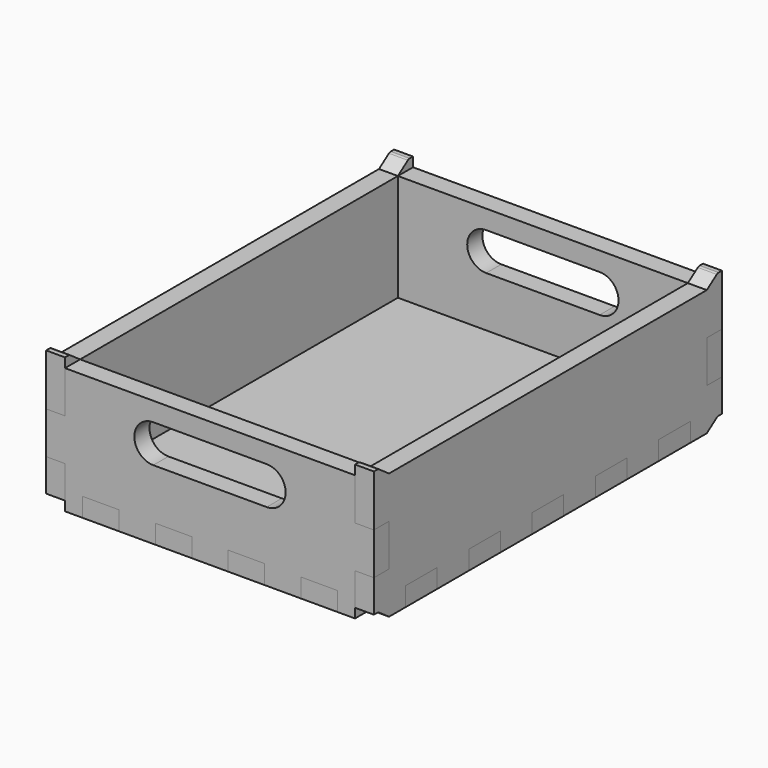
from build123d import *

# Parameters (mm, degrees)
SKETCH_W                           = 260
SKETCH_H                           = 345
PAD_DEPTH                          = 15
SKETCH001_W                        = 15
SKETCH001_H                        = 31.3636363636
POCKET_DEPTH                       = 879.523989862
SKETCH001_LINEARPATTERN_2_W        = 15
SKETCH001_LINEARPATTERN_2_H        = 31.3636363636
POCKET_LINEARPATTERN_2_DEPTH       = 879.523989862
SKETCH001_LINEARPATTERN_3_W        = 15
SKETCH001_LINEARPATTERN_3_H        = 31.3636363636
POCKET_LINEARPATTERN_3_DEPTH       = 879.523989862
SKETCH001_LINEARPATTERN_4_W        = 15
SKETCH001_LINEARPATTERN_4_H        = 31.3636363636
POCKET_LINEARPATTERN_4_DEPTH       = 879.523989862
SKETCH001_LINEARPATTERN_5_W        = 15
SKETCH001_LINEARPATTERN_5_H        = 31.3636363636
POCKET_LINEARPATTERN_5_DEPTH       = 879.523989862
SKETCH001_LINEARPATTERN_6_W        = 15
SKETCH001_LINEARPATTERN_6_H        = 31.3636363636
POCKET_LINEARPATTERN_6_DEPTH       = 879.523989862
LINEARPATTERN001_COUNT             = 2
LINEARPATTERN001_PITCH             = 245
SKETCH002_W                        = 28.8888888889
SKETCH002_H                        = 15
POCKET001_DEPTH                    = 879.523989862
SKETCH002_LINEARPATTERN002_2_W     = 28.8888888889
SKETCH002_LINEARPATTERN002_2_H     = 15
POCKET001_LINEARPATTERN002_2_DEPTH = 879.523989862
SKETCH002_LINEARPATTERN002_3_W     = 28.8888888889
SKETCH002_LINEARPATTERN002_3_H     = 15
POCKET001_LINEARPATTERN002_3_DEPTH = 879.523989862
SKETCH002_LINEARPATTERN002_4_W     = 28.8888888889
SKETCH002_LINEARPATTERN002_4_H     = 15
POCKET001_LINEARPATTERN002_4_DEPTH = 879.523989862
SKETCH002_LINEARPATTERN002_5_W     = 28.8888888889
SKETCH002_LINEARPATTERN002_5_H     = 15
POCKET001_LINEARPATTERN002_5_DEPTH = 879.523989862
LINEARPATTERN003_COUNT             = 2
LINEARPATTERN003_PITCH             = 330
SKETCH003_W                        = 260
SKETCH003_H                        = 100
PAD001_DEPTH                       = 15
SKETCH004_W                        = 15
SKETCH004_H                        = 33.3333333333
POCKET002_DEPTH                    = 572.9436493825
SKETCH004_LINEARPATTERN004_2_W     = 15
SKETCH004_LINEARPATTERN004_2_H     = 33.3333333333
POCKET002_LINEARPATTERN004_2_DEPTH = 572.9436493825
LINEARPATTERN005_COUNT             = 2
LINEARPATTERN005_PITCH             = 245
PAD002_DEPTH                       = 15
FILLET_R                           = 3.2
CLONE001_PLACEMENT_ANGLE           = 90
SKETCH006_W                        = 345
SKETCH006_H                        = 100
PAD003_DEPTH                       = 15


with BuildPart() as bottom_plate:
    # Sketch → Pad (new body)
    with BuildSketch(Plane.XY):
        Rectangle(SKETCH_W, SKETCH_H)
    extrude(amount=PAD_DEPTH)

    # Sketch001 (on Face6 of Pad) → Pocket (cut, through all)
    with BuildSketch(Plane.XY.offset(15)):
        with Locations((122.5, 156.8181818182)):
            Rectangle(SKETCH001_W, SKETCH001_H)
    pocket = extrude(amount=-POCKET_DEPTH, mode=Mode.SUBTRACT)

    # Sketch001 LinearPattern 2 → Pocket LinearPattern 2 (cut, through all)
    with BuildSketch(Plane(origin=(0, -62.7272727273, 15), x_dir=(1, 0, 0), z_dir=(0, 0, 1))):
        with Locations((122.5, 156.8181818182)):
            Rectangle(SKETCH001_LINEARPATTERN_2_W, SKETCH001_LINEARPATTERN_2_H)
    pocket_linearpattern_2 = extrude(amount=-POCKET_LINEARPATTERN_2_DEPTH, mode=Mode.SUBTRACT)

    # Sketch001 LinearPattern 3 → Pocket LinearPattern 3 (cut, through all)
    with BuildSketch(Plane(origin=(0, -125.4545454545, 15), x_dir=(1, 0, 0), z_dir=(0, 0, 1))):
        with Locations((122.5, 156.8181818182)):
            Rectangle(SKETCH001_LINEARPATTERN_3_W, SKETCH001_LINEARPATTERN_3_H)
    pocket_linearpattern_3 = extrude(amount=-POCKET_LINEARPATTERN_3_DEPTH, mode=Mode.SUBTRACT)

    # Sketch001 LinearPattern 4 → Pocket LinearPattern 4 (cut, through all)
    with BuildSketch(Plane(origin=(0, -188.1818181818, 15), x_dir=(1, 0, 0), z_dir=(0, 0, 1))):
        with Locations((122.5, 156.8181818182)):
            Rectangle(SKETCH001_LINEARPATTERN_4_W, SKETCH001_LINEARPATTERN_4_H)
    pocket_linearpattern_4 = extrude(amount=-POCKET_LINEARPATTERN_4_DEPTH, mode=Mode.SUBTRACT)

    # Sketch001 LinearPattern 5 → Pocket LinearPattern 5 (cut, through all)
    with BuildSketch(Plane(origin=(0, -250.9090909091, 15), x_dir=(1, 0, 0), z_dir=(0, 0, 1))):
        with Locations((122.5, 156.8181818182)):
            Rectangle(SKETCH001_LINEARPATTERN_5_W, SKETCH001_LINEARPATTERN_5_H)
    pocket_linearpattern_5 = extrude(amount=-POCKET_LINEARPATTERN_5_DEPTH, mode=Mode.SUBTRACT)

    # Sketch001 LinearPattern 6 → Pocket LinearPattern 6 (cut, through all)
    with BuildSketch(Plane(origin=(0, -313.6363636364, 15), x_dir=(1, 0, 0), z_dir=(0, 0, 1))):
        with Locations((122.5, 156.8181818182)):
            Rectangle(SKETCH001_LINEARPATTERN_6_W, SKETCH001_LINEARPATTERN_6_H)
    pocket_linearpattern_6 = extrude(amount=-POCKET_LINEARPATTERN_6_DEPTH, mode=Mode.SUBTRACT)

    # LinearPattern001: Pocket, Pocket LinearPattern 2, Pocket LinearPattern 3, Pocket LinearPattern 4, Pocket LinearPattern 5, Pocket LinearPattern 6 ×2
    with Locations(*[(-i * LINEARPATTERN001_PITCH, 0, 0) for i in range(1, LINEARPATTERN001_COUNT)]):
        add(pocket, mode=Mode.SUBTRACT)
        add(pocket_linearpattern_2, mode=Mode.SUBTRACT)
        add(pocket_linearpattern_3, mode=Mode.SUBTRACT)
        add(pocket_linearpattern_4, mode=Mode.SUBTRACT)
        add(pocket_linearpattern_5, mode=Mode.SUBTRACT)
        add(pocket_linearpattern_6, mode=Mode.SUBTRACT)

    # Sketch002 (on Face6 of Pad) → Pocket001 (cut, through all)
    with BuildSketch(Plane.XY.offset(15)):
        with Locations((115.5555555556, 165)):
            Rectangle(SKETCH002_W, SKETCH002_H)
    pocket001 = extrude(amount=-POCKET001_DEPTH, mode=Mode.SUBTRACT)

    # Sketch002 LinearPattern002 2 → Pocket001 LinearPattern002 2 (cut, through all)
    with BuildSketch(Plane(origin=(-57.7777777778, 0, 15), x_dir=(1, 0, 0), z_dir=(0, 0, 1))):
        with Locations((115.5555555556, 165)):
            Rectangle(SKETCH002_LINEARPATTERN002_2_W, SKETCH002_LINEARPATTERN002_2_H)
    pocket001_linearpattern002_2 = extrude(amount=-POCKET001_LINEARPATTERN002_2_DEPTH, mode=Mode.SUBTRACT)

    # Sketch002 LinearPattern002 3 → Pocket001 LinearPattern002 3 (cut, through all)
    with BuildSketch(Plane(origin=(-115.5555555556, 0, 15), x_dir=(1, 0, 0), z_dir=(0, 0, 1))):
        with Locations((115.5555555556, 165)):
            Rectangle(SKETCH002_LINEARPATTERN002_3_W, SKETCH002_LINEARPATTERN002_3_H)
    pocket001_linearpattern002_3 = extrude(amount=-POCKET001_LINEARPATTERN002_3_DEPTH, mode=Mode.SUBTRACT)

    # Sketch002 LinearPattern002 4 → Pocket001 LinearPattern002 4 (cut, through all)
    with BuildSketch(Plane(origin=(-173.3333333333, 0, 15), x_dir=(1, 0, 0), z_dir=(0, 0, 1))):
        with Locations((115.5555555556, 165)):
            Rectangle(SKETCH002_LINEARPATTERN002_4_W, SKETCH002_LINEARPATTERN002_4_H)
    pocket001_linearpattern002_4 = extrude(amount=-POCKET001_LINEARPATTERN002_4_DEPTH, mode=Mode.SUBTRACT)

    # Sketch002 LinearPattern002 5 → Pocket001 LinearPattern002 5 (cut, through all)
    with BuildSketch(Plane(origin=(-231.1111111111, 0, 15), x_dir=(1, 0, 0), z_dir=(0, 0, 1))):
        with Locations((115.5555555556, 165)):
            Rectangle(SKETCH002_LINEARPATTERN002_5_W, SKETCH002_LINEARPATTERN002_5_H)
    pocket001_linearpattern002_5 = extrude(amount=-POCKET001_LINEARPATTERN002_5_DEPTH, mode=Mode.SUBTRACT)

    # LinearPattern003: Pocket001, Pocket001 LinearPattern002 2, Pocket001 LinearPattern002 3, Pocket001 LinearPattern002 4, Pocket001 LinearPattern002 5 ×2
    with Locations(*[(0, -i * LINEARPATTERN003_PITCH, 0) for i in range(1, LINEARPATTERN003_COUNT)]):
        add(pocket001, mode=Mode.SUBTRACT)
        add(pocket001_linearpattern002_2, mode=Mode.SUBTRACT)
        add(pocket001_linearpattern002_3, mode=Mode.SUBTRACT)
        add(pocket001_linearpattern002_4, mode=Mode.SUBTRACT)
        add(pocket001_linearpattern002_5, mode=Mode.SUBTRACT)


with BuildPart() as bottom_plate001:
    # Clone base: copy of Bottom plate
    add(bottom_plate.part)


with BuildPart() as front_plate_with_segments_cut:
    # Sketch003 → Pad001 (new body)
    with BuildSketch(Plane.XZ):
        with Locations((0, 50)):
            Rectangle(SKETCH003_W, SKETCH003_H)
        with BuildLine():
            ThreePointArc((-45, 85), (-60, 70), (-45, 55))
            Line((-45, 55), (45, 55))
            ThreePointArc((45, 55), (60, 70), (45, 85))
            Line((45, 85), (-45, 85))
        make_face(mode=Mode.SUBTRACT)
    extrude(amount=-PAD001_DEPTH)

    # Sketch004 → Pocket002 (cut, through all)
    with BuildSketch(Plane.XZ):
        with Locations((122.5, 16.6666666667)):
            Rectangle(SKETCH004_W, SKETCH004_H)
    pocket002 = extrude(amount=-POCKET002_DEPTH, mode=Mode.SUBTRACT)

    # Sketch004 LinearPattern004 2 → Pocket002 LinearPattern004 2 (cut, through all)
    with BuildSketch(Plane(origin=(0, 0, 66.6666666667), x_dir=(1, 0, 0), z_dir=(0, -1, 0))):
        with Locations((122.5, 16.6666666667)):
            Rectangle(SKETCH004_LINEARPATTERN004_2_W, SKETCH004_LINEARPATTERN004_2_H)
    pocket002_linearpattern004_2 = extrude(amount=-POCKET002_LINEARPATTERN004_2_DEPTH, mode=Mode.SUBTRACT)

    # LinearPattern005: Pocket002, Pocket002 LinearPattern004 2 ×2
    with Locations(*[(-i * LINEARPATTERN005_PITCH, 0, 0) for i in range(1, LINEARPATTERN005_COUNT)]):
        add(pocket002, mode=Mode.SUBTRACT)
        add(pocket002_linearpattern004_2, mode=Mode.SUBTRACT)


with BuildPart() as front_plate_with_segments_cut_1:
    # Body001 placement: moved
    add(front_plate_with_segments_cut.part.moved(Location((0, -172.5, 0))))

    # Cut: cut Bottom plate001
    add(bottom_plate001.part, mode=Mode.SUBTRACT)


with BuildPart() as lock_notch:
    # Sketch005 → Pad002 (new body)
    with BuildSketch(Plane.XZ):
        Polygon((0, 0), (0, 7.5), (-4.2888899494, 7.5), (-15, 0), align=None)
    extrude(amount=-PAD002_DEPTH)

    # Fillet
    fillet_edges = [lock_notch.edges().sort_by_distance(p)[0] for p in [
        (-4.28889, 7.5, 7.5),
    ]]
    fillet(fillet_edges, radius=FILLET_R)


with BuildPart() as lock_notch001:
    # Clone001 base: copy of Lock notch
    add(lock_notch.part)


with BuildPart() as lock_notch001_1:
    # Clone001 placement: moved
    add(lock_notch001.part.moved(Location((130, 172.5, 0))).rotate(Axis((130, 172.5, 0), (0, 0, 1)), CLONE001_PLACEMENT_ANGLE))


with BuildPart() as compound:
    # Part__Mirroring: instance of Lock notch001
    add(lock_notch001_1.part.mirror(Plane(origin=(0, 0, 0), x_dir=(1, 0, 0), z_dir=(0, 1, 0))))

    # Compound: union Lock notch001
    add(lock_notch001_1.part)


with BuildPart() as compound001:
    # Clone002 base: copy of Compound
    add(compound.part)


with BuildPart() as compound001_1:
    # Clone002 placement: moved
    add(compound001.part.moved(Location((0, 0, 100))))


with BuildPart() as front_plate_with_segments_cut001:
    # Clone003 base: copy of Front plate - with segments cut
    add(front_plate_with_segments_cut_1.part)


with BuildPart() as bottom_plate002:
    # Clone004 base: copy of Bottom plate
    add(bottom_plate.part)


with BuildPart() as fusion:
    # Part__Mirroring001: instance of Front plate - with segments cut001
    add(front_plate_with_segments_cut001.part.mirror(Plane(origin=(0, 0, 0), x_dir=(1, 0, 0), z_dir=(0, 1, 0))))

    # Fusion: union Front plate - with segments cut001, Bottom plate002, Compound
    add(front_plate_with_segments_cut001.part)
    add(bottom_plate002.part)
    add(compound.part)


with BuildPart() as side_plate_with_segments_and_notch:
    # Sketch006 → Pad003 (new body)
    with BuildSketch(Plane.YZ):
        with Locations((0, 50)):
            Rectangle(SKETCH006_W, SKETCH006_H)
    extrude(amount=-PAD003_DEPTH)


with BuildPart() as side_plate_with_segments_and_notch_1:
    # Body003 placement: moved
    add(side_plate_with_segments_and_notch.part.moved(Location((130, 0, 0))))

    # Cut001: cut Fusion
    add(fusion.part, mode=Mode.SUBTRACT)

    # Fusion001: union Compound001
    add(compound001_1.part)


with BuildPart() as front_plate_with_segments_cut002:
    # Clone005 base: copy of Front plate - with segments cut
    add(front_plate_with_segments_cut_1.part)


with BuildPart() as part_mirroring002:
    # Part__Mirroring002: instance of Front plate - with segments cut002
    add(front_plate_with_segments_cut002.part.mirror(Plane(origin=(0, 0, 0), x_dir=(1, 0, 0), z_dir=(0, 1, 0))))


with BuildPart() as side_plate_with_segments_and_notch001:
    # Clone006 base: copy of Side plate - with segments and notch
    add(side_plate_with_segments_and_notch_1.part)


with BuildPart() as part_mirroring003:
    # Part__Mirroring003: instance of Side plate - with segments and notch001
    add(side_plate_with_segments_and_notch001.part.mirror(Plane(origin=(0, 0, 0), x_dir=(0, -1, 0), z_dir=(1, 0, 0))))


solid = Compound([bottom_plate.part, front_plate_with_segments_cut_1.part, lock_notch.part, side_plate_with_segments_and_notch_1.part, part_mirroring002.part, part_mirroring003.part])
